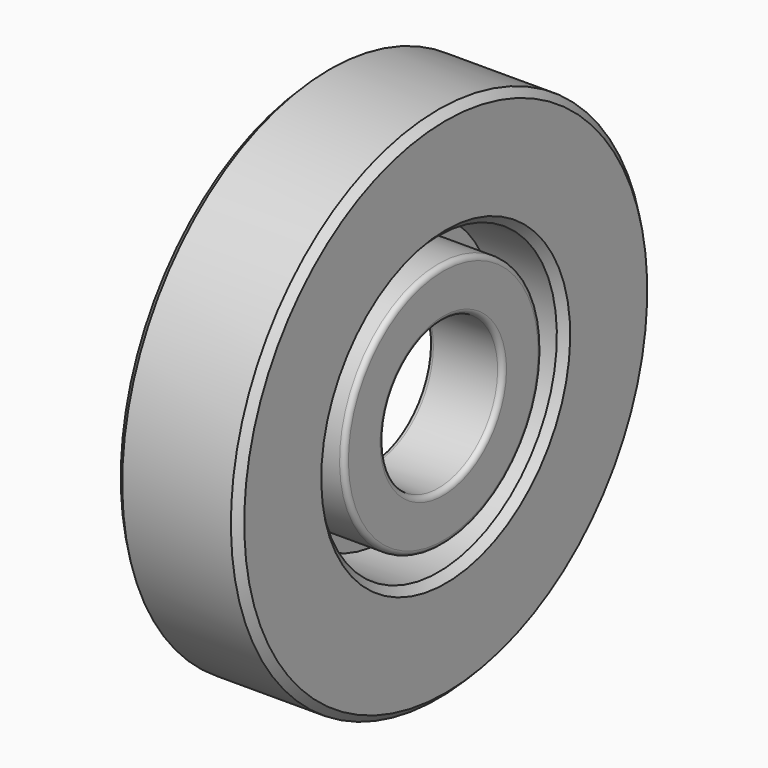
from build123d import *

# Parameters (mm, degrees)
F0_R    = 0.6
F2_R    = 0.2
F3_W    = 5
F3_H    = 4.5
F3_R    = 1.25
F5_SIZE = 0.3


with BuildPart() as f1:
    # F0 (on Front) → F1 (revolve)
    with BuildSketch(Plane.XZ):
        Polygon((0, 5.6), (-0.6, 5.6), (-0.6, 3), (2.4, 3), (2.4, 5), (0, 5), align=None)
        with Locations((0.9, 4)):
            Circle(F0_R, mode=Mode.SUBTRACT)
    revolve(axis=Axis((0.9, 0, 0), (1, 0, 0)))

    # F2
    f2_edges = [f1.edges().sort_by_distance(p)[0] for p in [
        (2.4, 0, -5),
        (2.4, 0, -3),
        (-0.6, 0, -3),
    ]]
    fillet(f2_edges, radius=F2_R)


with BuildPart() as f4:
    # F3 (on Front) → F4 (revolve)
    with BuildSketch(Plane.XZ):
        with Locations((0, 8.25)):
            Rectangle(F3_W, F3_H)
        with Locations((0, 8.25)):
            Circle(F3_R, mode=Mode.SUBTRACT)
    revolve(axis=Axis((0, 0, 0), (1, 0, 0)))

    # F5
    f5_edges = [f4.edges().sort_by_distance(p)[0] for p in [
        (-2.5, 0, -10.5),
        (-2.5, 0, -6),
        (2.5, 0, -6),
        (2.5, 0, -10.5),
    ]]
    chamfer(f5_edges, length=F5_SIZE)


solid = Compound([f1.part, f4.part])
